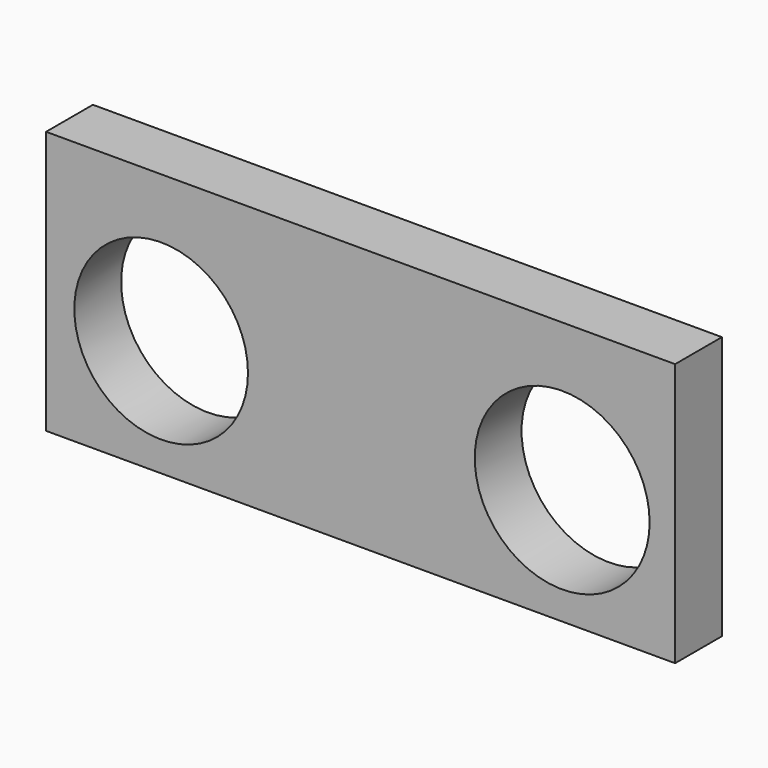
from build123d import *

# Parameters (mm, degrees)
F0_W     = 273.05
F0_H     = 114.3
F2_DEPTH = 25.4
F1_R     = 37.690445
F1_R_2   = 37.958893
F4_DEPTH = 25.4
F5_DEPTH = 25.4
F6_DEPTH = 25.4
F7_DEPTH = 25.4


with BuildPart() as f2:
    # F0 (on Front) → F2 (new body)
    with BuildSketch(Plane.XZ):
        with Locations((136.525, 57.15)):
            Rectangle(F0_W, F0_H)
    extrude(amount=F2_DEPTH)

    # F1 (on face) → F4 (cut)
    with BuildSketch(Plane.XZ):
        with Locations((49.946755, 50.604541)):
            Circle(F1_R)
        with Locations((224.03121, 50.220247)):
            Circle(F1_R_2)
    extrude(amount=-F4_DEPTH, mode=Mode.SUBTRACT)

    # F1 (on face) → F5 (cut)
    with BuildSketch(Plane.XZ):
        with Locations((49.946755, 50.604541)):
            Circle(F1_R)
        with Locations((224.03121, 50.220247)):
            Circle(F1_R_2)
    extrude(amount=-F5_DEPTH, mode=Mode.SUBTRACT)

    # F1 (on face) → F6 (cut)
    with BuildSketch(Plane.XZ):
        with Locations((49.946755, 50.604541)):
            Circle(F1_R)
        with Locations((224.03121, 50.220247)):
            Circle(F1_R_2)
    extrude(amount=-F6_DEPTH, mode=Mode.SUBTRACT)

    # F1 (on face) → F7 (cut)
    with BuildSketch(Plane.XZ):
        with Locations((49.946755, 50.604541)):
            Circle(F1_R)
        with Locations((224.03121, 50.220247)):
            Circle(F1_R_2)
    extrude(amount=F7_DEPTH, mode=Mode.SUBTRACT)


solid = f2.part
